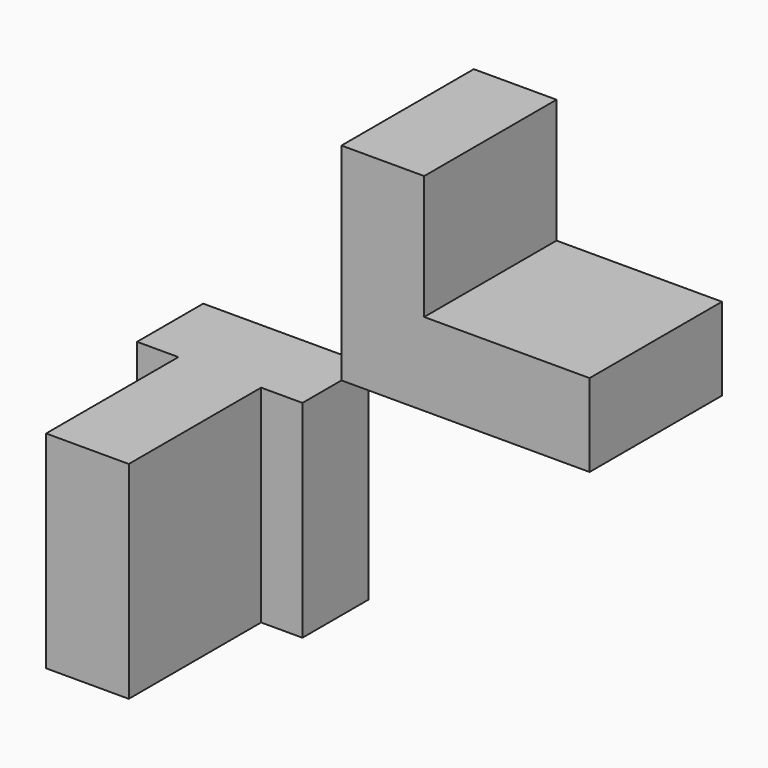
from build123d import *

# Parameters (mm, degrees)
F1_DEPTH = 25.4
F3_DEPTH = 31.75


with BuildPart() as f1:
    # F0 (on Front) → F1 (new body)
    with BuildSketch(Plane.XZ):
        Polygon((0, 31.75), (0, 0), (38.1, 0), (38.1, 12.7), (12.7, 12.7), (12.7, 31.75), align=None)
    extrude(amount=-F1_DEPTH)


with BuildPart() as f3:
    # F2 (on Top) → F3 (new body)
    with BuildSketch(Plane.XY):
        Polygon((0, -7.487861), (0, 5.212139), (-25.4, 5.212139), (-25.4, -7.487861), (-19.05, -7.487861), (-19.05, -32.887861), (-6.35, -32.887861), (-6.35, -7.487861), align=None)
    extrude(amount=-F3_DEPTH)


solid = Compound([f1.part, f3.part])
